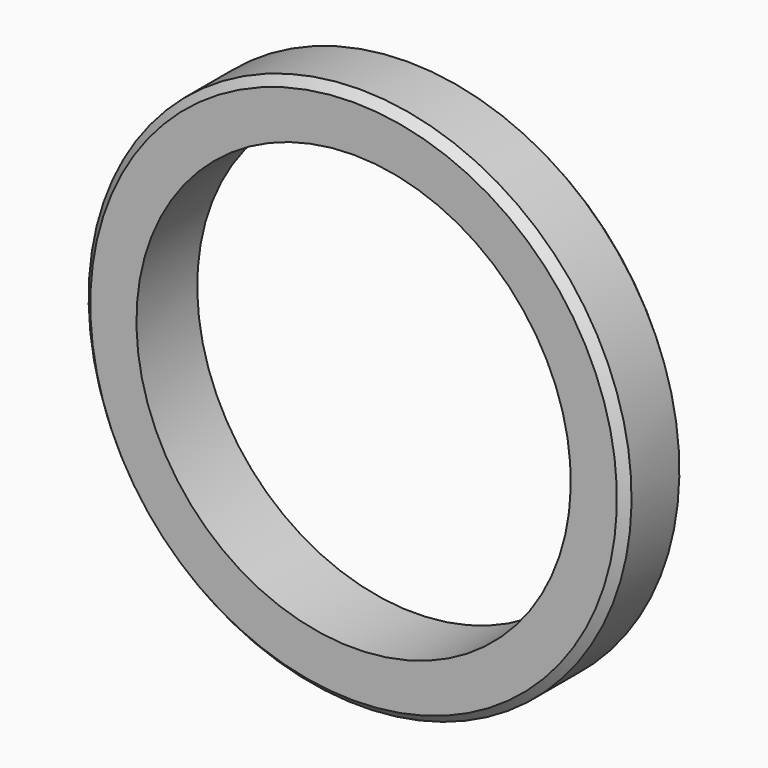
from build123d import *

# Parameters (mm, degrees)
SKETCH_W     = 14
SKETCH_H     = 10
CHAMFER_SIZE = 1.5


with BuildPart() as part:
    # Sketch → Revolution (revolve)
    with BuildSketch(Plane.YZ):
        with Locations((0, 45)):
            Rectangle(SKETCH_W, SKETCH_H)
    revolve(axis=Axis((0, 0, 0), (0, 1, 0)))

    # Chamfer
    chamfer_edges = [part.edges().sort_by_distance(p)[0] for p in [
        (0, -7, -50),
        (0, 7, -50),
    ]]
    chamfer(chamfer_edges, length=CHAMFER_SIZE)


solid = part.part
